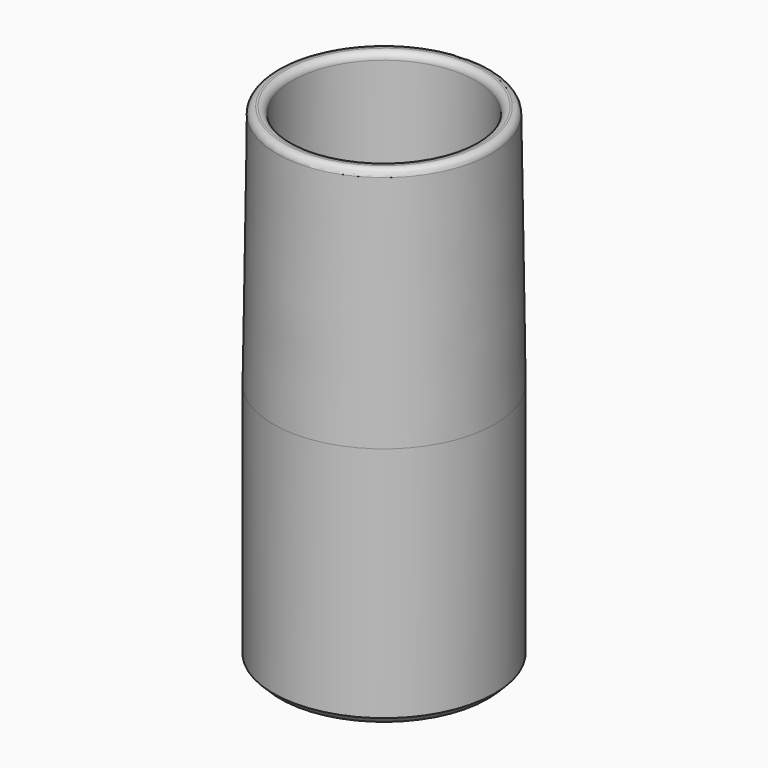
from build123d import *

# Parameters (mm, degrees)
F2_R    = 1
F3_SIZE = 1


with BuildPart() as f1:
    # F0 (on Front) → F1 (revolve)
    with BuildSketch(Plane.XZ):
        Polygon((15.875, 0), (15.875, 35), (15.375, 70), (13.125, 70), (13.125, 35), (13.625, 0), align=None)
    revolve(axis=Axis((0, 0, 29.460958), (0, 0, 1)))

    # F2
    f2_edges = [f1.edges().sort_by_distance(p)[0] for p in [
        (-15.375, 0, 70),
        (-13.125, 0, 70),
    ]]
    fillet(f2_edges, radius=F2_R)

    # F3
    f3_edges = [f1.edges().sort_by_distance(p)[0] for p in [
        (-15.875, 0, 0),
    ]]
    chamfer(f3_edges, length=F3_SIZE)


solid = f1.part
